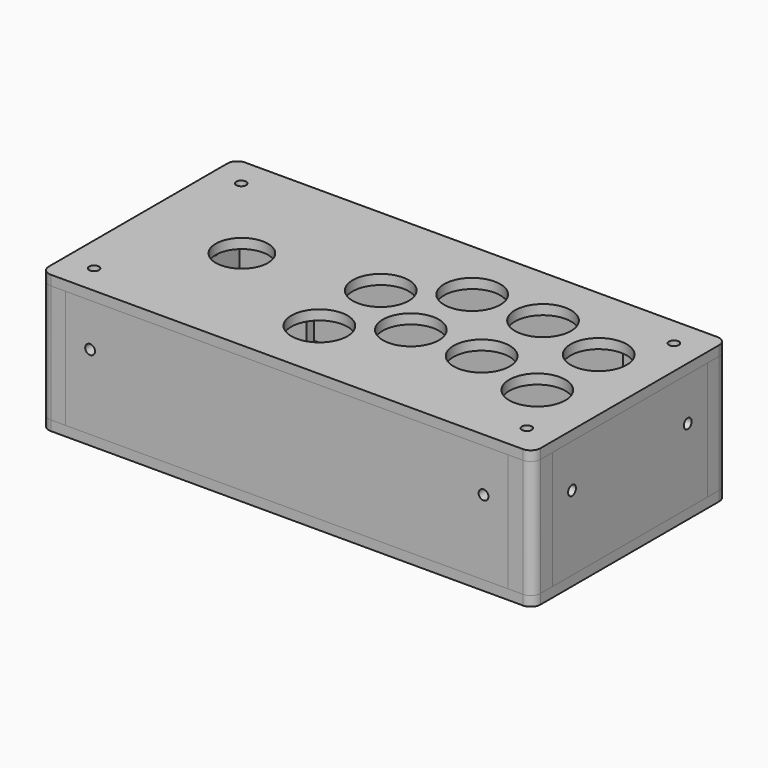
from build123d import *

# Parameters (mm, degrees)
F0_R      = 2.5
F0_R_2    = 14.25
F0_R_3    = 13.25
F1_DEPTH  = 5
F2_R      = 2.5
F3_DEPTH  = 60
F5_W      = 14
F5_H      = 14
F6_DEPTH  = 23
F7_R      = 2.5
F8_DEPTH  = 118.001
F9_R      = 2.5
F10_DEPTH = 244.501
F12_W     = 250
F12_H     = 123.5
F12_R     = 2.5
F13_DEPTH = 5
F15_W     = 225
F15_H     = 60
F15_R     = 2.5
F16_DEPTH = 5
F20_W     = 98.5
F20_H     = 60
F20_R     = 2.5
F21_DEPTH = 5
F25_DEPTH = 60
F28_R     = 5
F28_2_R   = 5
F28_3_R   = 5
F28_4_R   = 5
F28_5_R   = 5
F28_6_R   = 5


with BuildPart() as f1:
    # F0 (on Top) → F1 (new body)
    with BuildSketch(Plane.XY):
        Polygon((4.2541399598, 86.8459192246), (-120.7458600402, 86.8459192246), (-120.7458600402, -36.6540807754), (129.2541399598, -36.6540807754), (129.2541399598, 25.0959192246), (129.2541399598, 86.8459192246), align=None)
        with Locations((-105.7458600402, -21.6540807754)):
            Circle(F0_R, mode=Mode.SUBTRACT)
        with Locations((-5, -4.4040807754)):
            Circle(F0_R_2, mode=Mode.SUBTRACT)
        with Locations((114.2541399598, -21.6540807754)):
            Circle(F0_R, mode=Mode.SUBTRACT)
        with Locations((25.5, 15.5959192246)):
            Circle(F0_R_2, mode=Mode.SUBTRACT)
        with Locations((61.5, 15.5959192246)):
            Circle(F0_R_2, mode=Mode.SUBTRACT)
        with Locations((97, 6.5959192246)):
            Circle(F0_R_2, mode=Mode.SUBTRACT)
        with Locations((-68, 25.0959192246)):
            Circle(F0_R_3, mode=Mode.SUBTRACT)
        with Locations((-5, 34.5959192246)):
            Circle(F0_R_2, mode=Mode.SUBTRACT)
        with Locations((-105.7458600402, 71.8459192246)):
            Circle(F0_R, mode=Mode.SUBTRACT)
        with Locations((25.5, 54.5959192246)):
            Circle(F0_R_2, mode=Mode.SUBTRACT)
        with Locations((61.5, 54.5959192246)):
            Circle(F0_R_2, mode=Mode.SUBTRACT)
        with Locations((97, 45.5959192246)):
            Circle(F0_R_2, mode=Mode.SUBTRACT)
        with Locations((114.2541399598, 71.8459192246)):
            Circle(F0_R, mode=Mode.SUBTRACT)
    extrude(amount=F1_DEPTH)

    # F28
    f28_edges = [f1.edges().sort_by_distance(p)[0] for p in [
        (-120.74586, -36.654081, 2.5),
        (129.25414, -36.654081, 2.5),
        (129.25414, 86.845919, 2.5),
        (-120.74586, 86.845919, 2.5),
    ]]
    fillet(f28_edges, radius=F28_R)


with BuildPart() as f3:
    # F2 (on face) → F3 (new body)
    with BuildSketch(Plane(origin=(0, 0, 0), x_dir=(1, 0, 0), z_dir=(0, 0, -1))):
        with BuildLine():
            Line((-115.2458600402, -81.3459192246), (-96.2458600402, -81.3459192246))
            Line((-96.2458600402, -81.3459192246), (-76.2458600402, -81.3459192246))
            Line((-76.2458600402, -81.3459192246), (-76.2458600402, -76.3459192246))
            Line((-76.2458600402, -76.3459192246), (-96.2458600402, -76.3459192246))
            ThreePointArc((-96.2458600402, -76.3459192246), (-100.3463651036, -66.446424288), (-110.2458600402, -62.3459192246))
            Line((-110.2458600402, -62.3459192246), (-110.2458600402, -42.3459192246))
            Line((-110.2458600402, -42.3459192246), (-115.2458600402, -42.3459192246))
            Line((-115.2458600402, -42.3459192246), (-115.2458600402, -62.3459192246))
            Line((-115.2458600402, -62.3459192246), (-115.2458600402, -81.3459192246))
        make_face()
        with Locations((-105.7458600402, -71.8459192246)):
            Circle(F2_R, mode=Mode.SUBTRACT)
    extrude(amount=F3_DEPTH)


with BuildPart() as f3b:
    # F2 (on face) → F3, piece 2 (new body)
    with BuildSketch(Plane(origin=(0, 0, 0), x_dir=(1, 0, 0), z_dir=(0, 0, -1))):
        with BuildLine():
            Line((84.7541399598, -76.3459192246), (84.7541399598, -81.3459192246))
            Line((84.7541399598, -81.3459192246), (104.7541399598, -81.3459192246))
            Line((104.7541399598, -81.3459192246), (123.7541399598, -81.3459192246))
            Line((123.7541399598, -81.3459192246), (123.7541399598, -62.3459192246))
            Line((123.7541399598, -62.3459192246), (123.7541399598, -42.3459192246))
            Line((123.7541399598, -42.3459192246), (118.7541399598, -42.3459192246))
            Line((118.7541399598, -42.3459192246), (118.7541399598, -62.3459192246))
            ThreePointArc((118.7541399598, -62.3459192246), (108.8546450232, -66.446424288), (104.7541399598, -76.3459192246))
            Line((104.7541399598, -76.3459192246), (84.7541399598, -76.3459192246))
        make_face()
        with Locations((114.2541399598, -71.8459192246)):
            Circle(F2_R, mode=Mode.SUBTRACT)
    extrude(amount=F3_DEPTH)


with BuildPart() as f3c:
    # F2 (on face) → F3, piece 3 (new body)
    with BuildSketch(Plane(origin=(0, 0, 0), x_dir=(1, 0, 0), z_dir=(0, 0, -1))):
        with BuildLine():
            Line((118.7541399598, -7.8459192246), (123.7541399598, -7.8459192246))
            Line((123.7541399598, -7.8459192246), (123.7541399598, 12.1540807754))
            Line((123.7541399598, 12.1540807754), (123.7541399598, 31.1540807754))
            Line((123.7541399598, 31.1540807754), (104.7541399598, 31.1540807754))
            Line((104.7541399598, 31.1540807754), (84.7541399598, 31.1540807754))
            Line((84.7541399598, 31.1540807754), (84.7541399598, 26.1540807754))
            Line((84.7541399598, 26.1540807754), (104.7541399598, 26.1540807754))
            ThreePointArc((104.7541399598, 26.1540807754), (108.8546450232, 16.2545858388), (118.7541399598, 12.1540807754))
            Line((118.7541399598, 12.1540807754), (118.7541399598, -7.8459192246))
        make_face()
        with Locations((114.2541399598, 21.6540807754)):
            Circle(F2_R, mode=Mode.SUBTRACT)
    extrude(amount=F3_DEPTH)


with BuildPart() as f3d:
    # F2 (on face) → F3, piece 4 (new body)
    with BuildSketch(Plane(origin=(0, 0, 0), x_dir=(1, 0, 0), z_dir=(0, 0, -1))):
        with BuildLine():
            Line((-115.2458600402, 12.1540807754), (-115.2458600402, -7.8459192246))
            Line((-115.2458600402, -7.8459192246), (-110.2458600402, -7.8459192246))
            Line((-110.2458600402, -7.8459192246), (-110.2458600402, 12.1540807754))
            ThreePointArc((-110.2458600402, 12.1540807754), (-100.3463651036, 16.2545858388), (-96.2458600402, 26.1540807754))
            Line((-96.2458600402, 26.1540807754), (-76.2458600402, 26.1540807754))
            Line((-76.2458600402, 26.1540807754), (-76.2458600402, 31.1540807754))
            Line((-76.2458600402, 31.1540807754), (-96.2458600402, 31.1540807754))
            Line((-96.2458600402, 31.1540807754), (-115.2458600402, 31.1540807754))
            Line((-115.2458600402, 31.1540807754), (-115.2458600402, 12.1540807754))
        make_face()
        with Locations((-105.7458600402, 21.6540807754)):
            Circle(F2_R, mode=Mode.SUBTRACT)
    extrude(amount=F3_DEPTH)


with BuildPart() as f6_tool:
    # F5 (on mid) → F6 (new body, symmetric)
    with BuildSketch(Plane.XY.offset(-30)):
        with Locations((-103.2458600402, 69.3459192246)):
            Rectangle(F5_W, F5_H)
        with Locations((111.7541399598, 69.3459192246)):
            Rectangle(F5_W, F5_H)
        with Locations((111.7541399598, -19.1540807754)):
            Rectangle(F5_W, F5_H)
        with Locations((-103.2458600402, -19.1540807754)):
            Rectangle(F5_W, F5_H)
    extrude(amount=F6_DEPTH, both=True)


with BuildPart() as f3_1:
    add(f3.part)

    # F6: cut by f6_tool
    add(f6_tool.part, mode=Mode.SUBTRACT)


with BuildPart() as f3b_1:
    add(f3b.part)

    # F6: cut by f6_tool
    add(f6_tool.part, mode=Mode.SUBTRACT)


with BuildPart() as f3c_1:
    add(f3c.part)

    # F6: cut by f6_tool
    add(f6_tool.part, mode=Mode.SUBTRACT)


with BuildPart() as f3d_1:
    add(f3d.part)

    # F6: cut by f6_tool
    add(f6_tool.part, mode=Mode.SUBTRACT)


with BuildPart() as f8_tool:
    # F7 (on face) → F8 (new body, through all)
    with BuildSketch(Plane.XZ.offset(31.1540807754)):
        with BuildLine():
            ThreePointArc((-93.2458600402, -22), (-93.9780930872, -20.232233047), (-95.7458600402, -19.5))
            Line((-95.7458600402, -19.5), (-95.7458600402, -22))
            Line((-95.7458600402, -22), (-95.7458600402, -24.5))
            ThreePointArc((-95.7458600402, -24.5), (-93.9780930872, -23.767766953), (-93.2458600402, -22))
        make_face()
        with BuildLine():
            Line((-95.7458600402, -22), (-95.7458600402, -19.5))
            ThreePointArc((-95.7458600402, -19.5), (-98.2458600402, -22), (-95.7458600402, -24.5))
            Line((-95.7458600402, -24.5), (-95.7458600402, -22))
        make_face()
        with Locations((104.2541399598, -22)):
            Circle(F7_R)
    extrude(amount=-F8_DEPTH)


with BuildPart() as f3_2:
    add(f3_1.part)

    # F8: cut by f8_tool
    add(f8_tool.part, mode=Mode.SUBTRACT)


with BuildPart() as f3b_2:
    add(f3b_1.part)

    # F8: cut by f8_tool
    add(f8_tool.part, mode=Mode.SUBTRACT)


with BuildPart() as f3c_2:
    add(f3c_1.part)

    # F8: cut by f8_tool
    add(f8_tool.part, mode=Mode.SUBTRACT)


with BuildPart() as f3d_2:
    add(f3d_1.part)

    # F8: cut by f8_tool
    add(f8_tool.part, mode=Mode.SUBTRACT)


with BuildPart() as f10_tool:
    # F9 (on face) → F10 (new body, through all)
    with BuildSketch(Plane(origin=(-115.2458600402, 0, 0), x_dir=(0, -1, 0), z_dir=(-1, 0, 0))):
        with Locations((-61.8459192246, -22)):
            Circle(F9_R)
        with Locations((11.6540807754, -22)):
            Circle(F9_R)
    extrude(amount=-F10_DEPTH)


with BuildPart() as f3_3:
    add(f3_2.part)

    # F10: cut by f10_tool
    add(f10_tool.part, mode=Mode.SUBTRACT)


with BuildPart() as f3b_3:
    add(f3b_2.part)

    # F10: cut by f10_tool
    add(f10_tool.part, mode=Mode.SUBTRACT)


with BuildPart() as f3c_3:
    add(f3c_2.part)

    # F10: cut by f10_tool
    add(f10_tool.part, mode=Mode.SUBTRACT)


with BuildPart() as f3d_3:
    add(f3d_2.part)

    # F10: cut by f10_tool
    add(f10_tool.part, mode=Mode.SUBTRACT)


with BuildPart() as f13:
    # F12 (on plane+point) → F13 (new body)
    with BuildSketch(Plane(origin=(0, 0, -60), x_dir=(1, 0, 0), z_dir=(0, 0, -1))):
        with Locations((4.2541399598, -25.0959192246)):
            Rectangle(F12_W, F12_H)
        with Locations((-105.7458600402, -71.8459192246)):
            Circle(F12_R, mode=Mode.SUBTRACT)
        with Locations((114.2541399598, -71.8459192246)):
            Circle(F12_R, mode=Mode.SUBTRACT)
        with Locations((-105.7458600402, 21.6540807754)):
            Circle(F12_R, mode=Mode.SUBTRACT)
        with Locations((114.2541399598, 21.6540807754)):
            Circle(F12_R, mode=Mode.SUBTRACT)
    extrude(amount=F13_DEPTH)

    # F28#3
    f28_3_edges = [f13.edges().sort_by_distance(p)[0] for p in [
        (-120.74586, -36.654081, -62.5),
        (129.25414, -36.654081, -62.5),
        (129.25414, 86.845919, -62.5),
        (-120.74586, 86.845919, -62.5),
    ]]
    fillet(f28_3_edges, radius=F28_3_R)


with BuildPart() as f16:
    # F15 (on plane+point) → F16 (new body)
    with BuildSketch(Plane.XZ.offset(36.6540807754)):
        with Locations((4.2541399598, -30)):
            Rectangle(F15_W, F15_H)
        with Locations((-95.7458600402, -22)):
            Circle(F15_R, mode=Mode.SUBTRACT)
        with Locations((104.2541399598, -22)):
            Circle(F15_R, mode=Mode.SUBTRACT)
    extrude(amount=-F16_DEPTH)


with BuildPart() as f21:
    # F20 (on offset) → F21 (new body)
    with BuildSketch(Plane(origin=(-120.7458600402, 0, 0), x_dir=(0, -1, 0), z_dir=(-1, 0, 0))):
        with Locations((-25.0959192246, -30)):
            Rectangle(F20_W, F20_H)
        with Locations((-61.8459192246, -22)):
            Circle(F20_R, mode=Mode.SUBTRACT)
        with Locations((11.6540807754, -22)):
            Circle(F20_R, mode=Mode.SUBTRACT)
    extrude(amount=-F21_DEPTH)


with BuildPart() as f22_1:
    # F22: instance of F21
    add(f21.part.mirror(Plane(origin=(4.2541399598, 25.0959192246, 2.5), x_dir=(0, -1, 0), z_dir=(-1, 0, 0))))


with BuildPart() as f25:
    # F24 (on offset) → F25 (new body)
    with BuildSketch(Plane.XY.offset(-60)):
        Polygon((-115.7458600402, -31.6540807754), (-115.7458600402, -24.1540807754), (-120.7458600402, -24.1540807754), (-120.7458600402, -36.6540807754), (-108.2458600402, -36.6540807754), (-108.2458600402, -31.6540807754), align=None)
    extrude(amount=F25_DEPTH)


with BuildPart() as f26_1:
    # F26: instance of F25
    add(f25.part.mirror(Plane(origin=(4.2541399598, 25.0959192246, 2.5), x_dir=(0, -1, 0), z_dir=(-1, 0, 0))))


with BuildPart() as f27_1:
    # F27: instance of F16
    add(f16.part.mirror(Plane(origin=(4.2541399598, 25.0959192246, 2.5), x_dir=(1, 0, 0), z_dir=(0, -1, 0))))


with BuildPart() as f27_2:
    # F27: instance of F26_1
    add(f26_1.part.mirror(Plane(origin=(4.2541399598, 25.0959192246, 2.5), x_dir=(1, 0, 0), z_dir=(0, -1, 0))))

    # F28#5
    f28_5_edges = [f27_2.edges().sort_by_distance(p)[0] for p in [
        (129.25414, 86.845919, -30),
    ]]
    fillet(f28_5_edges, radius=F28_5_R)


with BuildPart() as f27_3:
    # F27: instance of F25
    add(f25.part.mirror(Plane(origin=(4.2541399598, 25.0959192246, 2.5), x_dir=(1, 0, 0), z_dir=(0, -1, 0))))

    # F28#6
    f28_6_edges = [f27_3.edges().sort_by_distance(p)[0] for p in [
        (-120.74586, 86.845919, -30),
    ]]
    fillet(f28_6_edges, radius=F28_6_R)


with BuildPart() as f25_1:
    add(f25.part)

    # F28#2
    f28_2_edges = [f25_1.edges().sort_by_distance(p)[0] for p in [
        (-120.74586, -36.654081, -30),
    ]]
    fillet(f28_2_edges, radius=F28_2_R)


with BuildPart() as f26_1_1:
    add(f26_1.part)

    # F28#4
    f28_4_edges = [f26_1_1.edges().sort_by_distance(p)[0] for p in [
        (129.25414, -36.654081, -30),
    ]]
    fillet(f28_4_edges, radius=F28_4_R)


solid = Compound([f1.part, f3_3.part, f3b_3.part, f3c_3.part, f3d_3.part, f13.part, f16.part, f21.part, f22_1.part, f27_1.part, f27_2.part, f27_3.part, f25_1.part, f26_1_1.part])
